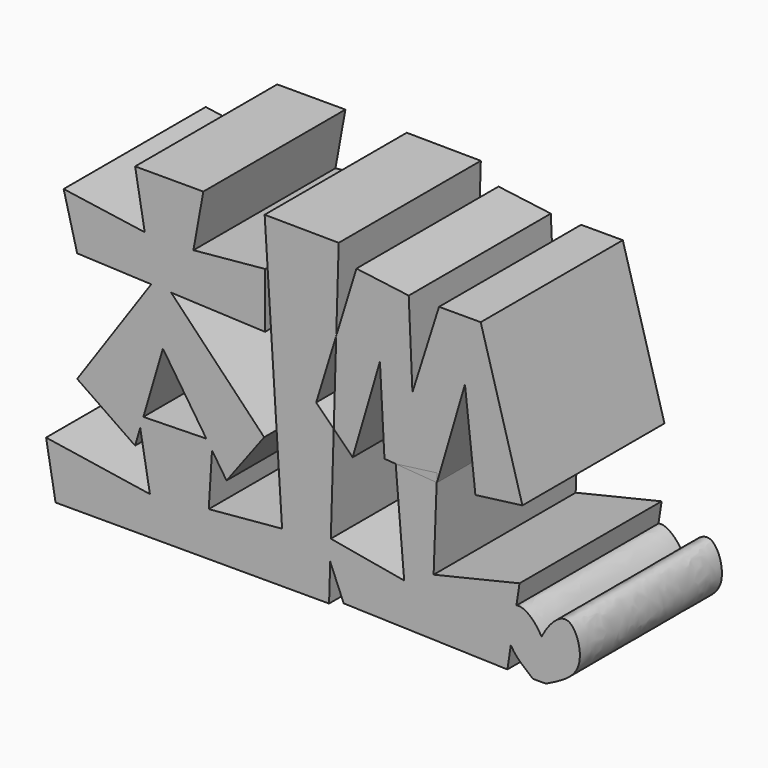
from build123d import *

# Parameters (mm, degrees)
F1_DEPTH = 25
F2_DEPTH = 25
F3_DEPTH = 10


with BuildPart() as f1:
    # F0 (on Front) → F1 (new body)
    with BuildSketch(Plane.XZ):
        with BuildLine():
            Line((-13.8038574857, -5.9560307972), (-13.8900675013, -8.8231437689))
            Line((-13.8900675013, -8.8231437689), (-11.9903517299, -13.3844045008))
            Line((-11.9903517299, -13.3844045008), (11.0529363155, -14.0772834495))
            Line((11.0529363155, -14.0772834495), (11.5348120517, -10.9067876988))
            add(Edge.make_bspline(
                [(11.5348120517, -10.9067876988), (11.3135547888, -10.5124783179), (10.5686752324, -8.6326108447), (11.272674479, -6.0669834143), (12.3197633371, -5.7422099285)],
                knots=[0.2030198512, 0.2030198512, 0.2030198512, 0.2030198512, 0.268474381, 0.4958313893, 0.4958313893, 0.4958313893, 0.4958313893], degree=3))
            Line((12.3197633371, -5.7422099285), (12.7595411614, -2.8486968949))
            Line((12.7595411614, -2.8486968949), (0.6657127524, -5.7112211362))
            Line((0.6657127524, -5.7112211362), (1.0960803472, 5.8498218141))
            Line((1.0960803472, 5.8498218141), (-4.6709247271, 6.2861025564))
            Line((-4.6709247271, 6.2861025564), (-3.4767405596, -7.7850059606))
            Line((-3.4767405596, -7.7850059606), (-13.8038574857, -5.9560307972))
        make_face()
        with BuildLine():
            Line((12.3197633371, -5.7422099285), (11.5348120517, -10.9067876988))
            add(Edge.make_bspline(
                [(14.6470405161, -14.0772834495), (13.434062326, -13.1035488802), (12.2210841359, -12.1298143109), (11.5348120517, -10.9067876988)],
                knots=[0, 0, 0, 0, 0.2030198512, 0.2030198512, 0.2030198512, 0.2030198512], degree=3))
            add(Edge.make_bspline(
                [(14.6470405161, -14.0772834495), (14.7783635464, -12.225537172), (14.9096865767, -10.3737908946), (15.8537942916, -8.4629901722)],
                knots=[0, 0, 0, 0, 0.2567714645, 0.2567714645, 0.2567714645, 0.2567714645], degree=3))
            add(Edge.make_bspline(
                [(12.3197633371, -5.7422099285), (13.4123448631, -5.4033260717), (15.0498181243, -6.8798091029), (15.8537942916, -8.4629901722)],
                knots=[0.4958313893, 0.4958313893, 0.4958313893, 0.4958313893, 0.7330663337, 0.7330663337, 0.7330663337, 0.7330663337], degree=3))
        make_face()
        with BuildLine():
            add(Edge.make_bspline(
                [(14.6470405161, -14.0772834495), (14.7783635464, -12.225537172), (14.9096865767, -10.3737908946), (15.8537942916, -8.4629901722)],
                knots=[0, 0, 0, 0, 0.2567714645, 0.2567714645, 0.2567714645, 0.2567714645], degree=3))
            Line((14.6470405161, -14.0772834495), (16.4571739733, -14.0772834495))
            add(Edge.make_bspline(
                [(15.8537942916, -8.4629901722), (16.7584177928, -10.2443648698), (16.6077958831, -12.1608241597), (16.4571739733, -14.0772834495)],
                knots=[0.7330663337, 0.7330663337, 0.7330663337, 0.7330663337, 1, 1, 1, 1], degree=3))
        make_face()
        with BuildLine():
            add(Edge.make_bspline(
                [(15.8537942916, -8.4629901722), (16.7197902017, -6.710281679), (19.8626204277, -3.0553352577), (22.5428614328, -11.1754474135), (18.5474829796, -13.0805622014), (16.4571739733, -14.0772834495)],
                knots=[0.2567714645, 0.2567714645, 0.2567714645, 0.2567714645, 0.4922986554, 0.7343799329, 1, 1, 1, 1], degree=3))
            add(Edge.make_bspline(
                [(15.8537942916, -8.4629901722), (16.7584177928, -10.2443648698), (16.6077958831, -12.1608241597), (16.4571739733, -14.0772834495)],
                knots=[0.7330663337, 0.7330663337, 0.7330663337, 0.7330663337, 1, 1, 1, 1], degree=3))
        make_face()
        with BuildLine():
            add(Edge.make_bspline(
                [(11.5348120517, -10.9067876988), (11.3135547888, -10.5124783179), (10.5686752324, -8.6326108447), (11.272674479, -6.0669834143), (12.3197633371, -5.7422099285)],
                knots=[0.2030198512, 0.2030198512, 0.2030198512, 0.2030198512, 0.268474381, 0.4958313893, 0.4958313893, 0.4958313893, 0.4958313893], degree=3))
            Line((11.5348120517, -10.9067876988), (12.3197633371, -5.7422099285))
        make_face()
        Polygon((-23.1174211949, 31.1617981642), (-20.6595559266, -6.951203708), (-19.0555751324, -6.8069654517), (-17.6979787648, -14.0772834495), (-14.0480520204, -14.0772834495), (-13.8900675013, -8.8231437689), (-15.186149627, -5.7112211362), (-13.8038574857, -5.9560307972), (-13.3906685564, 7.7855203546), (-15.8581826836, 10.2562485263), (-13.0404681098, 19.4322441848), (-12.6904547215, 31.0727469623), align=None)
        Polygon((-31.7507460713, 31.2218852341), (-41.3504131138, 31.2218852341), (-39.9949625134, 23.50179106), (-51.4109507203, 25.1507665962), (-49.5082885027, 17.7937950939), (-39.0860124502, 17.3495599563), (-36.282162182, 17.230049707), (-23.0560358614, 16.6663043201), (-23.0560358614, 24.4576222396), (-33.1453680992, 23.50179106), align=None)
        Polygon((-36.282162182, 17.230049707), (-39.0860124502, 17.3495599563), (-49.5082885027, 2.2380610462), (-41.3504131138, -3.388358266), (-40.6325580547, -0.945351209), (-41.0359203815, 0.5377207999), (-40.1915618765, 0.5554486558), (-37.4405235052, 9.9177928641), (-31.3230953161, 0.7416478779), (-30.4521713406, 0.7599334931), (-30.5270115259, -0.452478159), (-28.4808389843, -3.5217378754), (-23.1880545616, 3.5641349386), align=None)
        Polygon((-40.1915618765, 0.5554486558), (-40.6325580547, -0.945351209), (-39.2688455248, -8.7125019663), (-53.8843795657, -6.4565665089), (-52.5463770596, -14.0772834495), (-20.2000029385, -14.0772834495), (-20.6595559266, -6.951203708), (-30.9854857624, -7.879764773), (-30.5270115259, -0.452478159), (-31.3230953161, 0.7416478779), align=None)
        Polygon((-41.0359203815, 0.5377207999), (-40.6325580547, -0.945351209), (-40.1915618765, 0.5554486558), align=None)
        Polygon((-31.3230953161, 0.7416478779), (-30.5270115259, -0.452478159), (-30.4521713406, 0.7599334931), align=None)
        Polygon((-19.0555751324, -6.8069654517), (-20.6595559266, -6.951203708), (-20.2000029385, -14.0772834495), (-17.6979787648, -14.0772834495), align=None)
        Polygon((-15.186149627, -5.7112211362), (-13.8900675013, -8.8231437689), (-13.8038574857, -5.9560307972), align=None)
    extrude(amount=F1_DEPTH)


with BuildPart() as f1b:
    # F0 (on Front) → F1, piece 2 (new body)
    with BuildSketch(Plane.XZ):
        Polygon((-10.1965051144, 28.6937188357), (-13.0404681098, 19.4322441848), (-13.3906685564, 7.7855203546), (-10.7298232615, 5.121209193), (-6.889954675, 18.2407516986), (-6.2502167691, 6.4055778638), (-4.6709247271, 6.2861025564), (1.1411806336, 7.0613590069), (1.0960803472, 5.8498218141), (1.1411806336, 5.8464099242), (5.0802672746, 19.3049472298), (6.5495739691, 6.0811755247), (13.1626743823, 6.9344793446), (7.2962138802, 27.733752504), (1.4297531452, 27.733752504), (-2.3134381045, 15.9262754023), (-2.8367643245, 27.733752504), align=None)
    extrude(amount=F1_DEPTH)


with BuildPart() as f2:
    # F0 (on Front) → F2 (new body)
    with BuildSketch(Plane.XZ):
        Polygon((1.1411806336, 7.0613590069), (-4.6709247271, 6.2861025564), (1.0960803472, 5.8498218141), align=None)
    extrude(amount=F2_DEPTH)


with BuildPart() as f3:
    # F0 (on Front) → F3 (new body)
    with BuildSketch(Plane.XZ):
        Polygon((-13.3906685564, 7.7855203546), (-13.0404681098, 19.4322441848), (-15.8581826836, 10.2562485263), align=None)
    extrude(amount=F3_DEPTH)


solid = Compound([f1.part, f1b.part, f2.part, f3.part])
